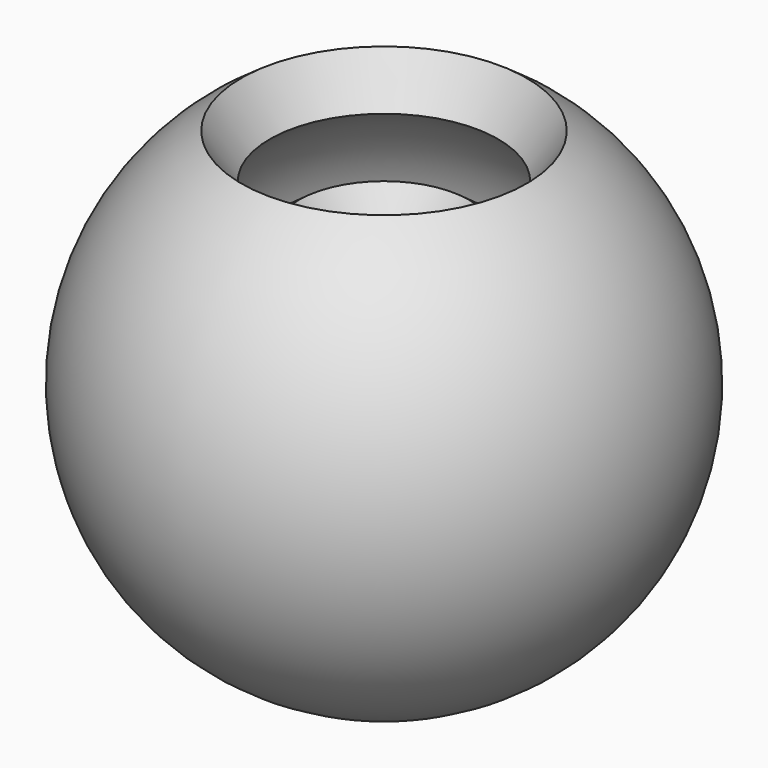
from build123d import *


with BuildPart() as f1:
    # F0 (on Right) → F1 (revolve)
    with BuildSketch(Plane.YZ):
        with BuildLine():
            ThreePointArc((-2.7452757104, 4.2743258268), (-4.8744217709, -1.4305287134), (0, -5.08))
            Line((0, -5.08), (0, 0))
            Line((0, 0), (-2.7452757104, 4.2743258268))
        make_face()
    revolve(axis=Axis((0, 0, 0), (0, 0, -1)))


with BuildPart() as f2:
    # F0 (on Right) → F2 (revolve)
    with BuildSketch(Plane.YZ):
        with BuildLine():
            ThreePointArc((-8.2358271312, 12.8229774805), (-14.6232653126, -4.2915861402), (0, -15.24))
            Line((0, -15.24), (0, -10.16))
            ThreePointArc((0, -10.16), (-9.7488435417, -2.8610574268), (-5.4905514208, 8.5486516537))
            Line((-5.4905514208, 8.5486516537), (-8.2358271312, 12.8229774805))
        make_face()
    revolve(axis=Axis((0, 0, 0), (0, 0, -1)))


with BuildPart() as f3:
    # F0 (on Right) → F3 (revolve)
    with BuildSketch(Plane.YZ):
        with BuildLine():
            Line((0, -25.4), (0, -20.32))
            ThreePointArc((0, -20.32), (-19.4976870834, -5.7221148536), (-10.9811028416, 17.0973033073))
            Line((-10.9811028416, 17.0973033073), (-13.726378552, 21.3716291342))
            ThreePointArc((-13.726378552, 21.3716291342), (-24.3721088543, -7.152643567), (0, -25.4))
        make_face()
    revolve(axis=Axis((0, 0, 0), (0, 0, -1)))


solid = Compound([f1.part, f2.part, f3.part])
